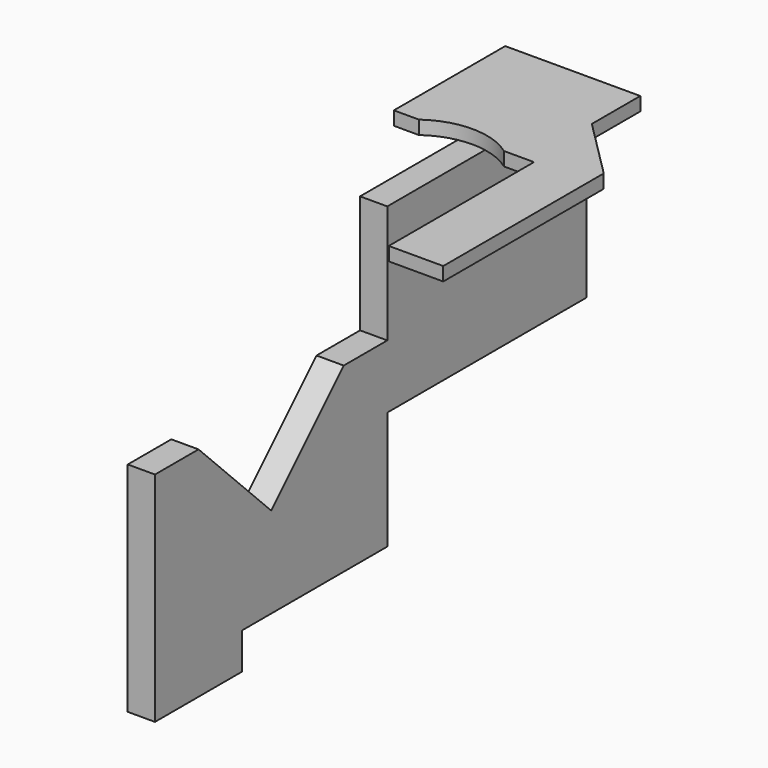
from build123d import *

# Parameters (mm, degrees)
F1_DEPTH = 9.525
F3_W     = 87.0458
F3_H     = 63.5
F3_W_2   = 38.1
F3_H_2   = 12.7
F4_DEPTH = 9.525
F6_DEPTH = 4.7625


with BuildPart() as f1:
    # F0 (on Right) → F1 (new body)
    with BuildSketch(Plane.YZ):
        Polygon((-127, 63.5), (-25.4, 63.5), (-25.4, 127), (-44.45, 127), (-76.2, 95.25), (-107.95, 127), (-127, 127), align=None)
    extrude(amount=F1_DEPTH)


with BuildPart() as f1_1:
    # F2: moved
    add(f1.part.moved(Location((25.4, 88.9, 0))))

    # F3 (on face) → F4 (join)
    with BuildSketch(Plane.YZ.offset(34.925)):
        with Locations((107.0229, 136.525)):
            Rectangle(F3_W, F3_H)
        with Locations((-19.05, 57.15)):
            Rectangle(F3_W_2, F3_H_2)
    extrude(amount=-F4_DEPTH)

    # F5 (on face) → F6 (join)
    with BuildSketch(Plane.XY.offset(168.275)):
        Polygon((6.5405, 150.5458), (6.5405, 108.204), (53.7845, 108.204), (53.7845, 129.3749), (53.7845, 150.5458), align=None)
        with BuildLine():
            Line((53.7845, 108.204), (6.5405, 108.204))
            Line((6.5405, 108.204), (6.534646, 101.854003))
            Line((6.534646, 101.854003), (15.267185, 101.854003))
            ThreePointArc((15.267185, 101.854003), (30.1625, 106.68), (45.057815, 101.854003))
            Line((45.057815, 101.854003), (55.5625, 101.854003))
            Line((55.5625, 101.854003), (55.5625, 38.354))
            Line((55.5625, 38.354), (74.6125, 38.354))
            Line((74.6125, 38.354), (74.6125, 108.5469))
            Line((74.6125, 108.5469), (53.7845, 129.3749))
            Line((53.7845, 129.3749), (53.7845, 108.204))
        make_face()
    extrude(amount=F6_DEPTH)


solid = f1_1.part
